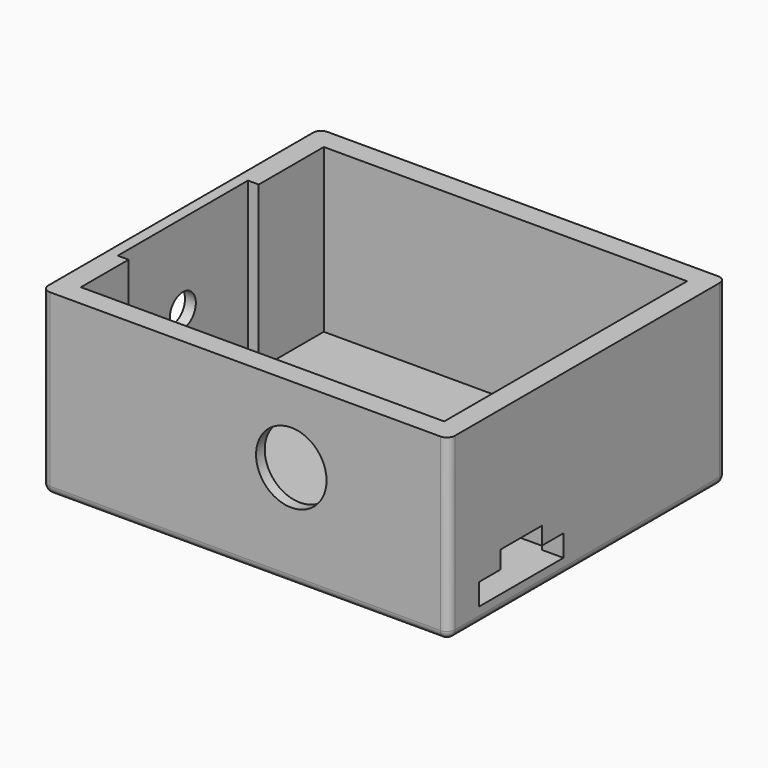
from build123d import *

# Parameters (mm, degrees)
CYLINDER005_R             = 3
CYLINDER005_DEPTH         = 10
BOX009_W                  = 30
BOX009_H                  = 30
BOX009_DEPTH              = 6
FUSION005_PLACEMENT_ANGLE = 270
BOX008_W                  = 28
BOX008_H                  = 18
BOX008_DEPTH              = 12.2
BOX007_W                  = 10
BOX007_H                  = 10
BOX007_DEPTH              = 10
BOX006_W                  = 10
BOX006_H                  = 10
BOX006_DEPTH              = 10
BOX005_W                  = 10
BOX005_H                  = 8
BOX005_DEPTH              = 4
BOX004_W                  = 29
BOX004_H                  = 19.5
BOX004_DEPTH              = 7.25
CYLINDER004_R             = 3.6
CYLINDER004_DEPTH         = 6.7
CYLINDER003_R             = 4.65
CYLINDER003_DEPTH         = 19
CYLINDER002_R             = 3.6
CYLINDER002_DEPTH         = 6.7
CYLINDER001_R             = 4.65
CYLINDER001_DEPTH         = 19
BOX003_W                  = 50
BOX003_H                  = 27
BOX003_DEPTH              = 12
BOX002_W                  = 51
BOX002_H                  = 24
BOX002_DEPTH              = 7
BOX001_W                  = 51
BOX001_H                  = 28
BOX001_DEPTH              = 6
FUSION001_PLACEMENT_ANGLE = 90
CYLINDER_R                = 6.5
CYLINDER_DEPTH            = 9
BOX_W                     = 30
BOX_H                     = 16
BOX_DEPTH                 = 30
FUSION_PLACEMENT_ANGLE    = 90
BOX013_W                  = 27
BOX013_H                  = 15.5
BOX013_DEPTH              = 3.5
BOX012_W                  = 75
BOX012_H                  = 64
BOX012_DEPTH              = 4
BOX011_W                  = 67
BOX011_H                  = 56
BOX011_DEPTH              = 30
BOX010_W                  = 75
BOX010_H                  = 64
BOX010_DEPTH              = 36
FILLET_R                  = 1.5


with BuildPart() as cylinder005:
    # Cylinder005 → Cylinder005 (new body)
    with BuildSketch(Plane(origin=(15, 15, 0), x_dir=(1, 0, 0), z_dir=(0, 0, 1))):
        Circle(CYLINDER005_R)
    extrude(amount=CYLINDER005_DEPTH)


with BuildPart() as obj1:
    # Box009 → Box009 (new body)
    with BuildSketch(Plane.XY):
        with Locations((15, 15)):
            Rectangle(BOX009_W, BOX009_H)
    extrude(amount=BOX009_DEPTH)

    # Fusion005: union Cylinder005
    add(cylinder005.part)


with BuildPart() as obj1_1:
    # Fusion005 placement: moved
    add(obj1.part.moved(Location((-34, 0, 0))).rotate(Axis((-34, 0, 0), (0, 1, 0)), FUSION005_PLACEMENT_ANGLE))


with BuildPart() as obj2:
    # Box008 → Box008 (new body)
    with BuildSketch(Plane(origin=(-30, -7, 0), x_dir=(1, 0, 0), z_dir=(0, 0, 1))):
        with Locations((14, 9)):
            Rectangle(BOX008_W, BOX008_H)
    extrude(amount=BOX008_DEPTH)


with BuildPart() as cube006:
    # Box007 → Box007 (new body)
    with BuildSketch(Plane(origin=(19, 14.5, 4), x_dir=(1, 0, 0), z_dir=(0, 0, 1))):
        with Locations((5, 5)):
            Rectangle(BOX007_W, BOX007_H)
    extrude(amount=BOX007_DEPTH)


with BuildPart() as cube005:
    # Box006 → Box006 (new body)
    with BuildSketch(Plane(origin=(19, -5, 4), x_dir=(1, 0, 0), z_dir=(0, 0, 1))):
        with Locations((5, 5)):
            Rectangle(BOX006_W, BOX006_H)
    extrude(amount=BOX006_DEPTH)


with BuildPart() as cube004:
    # Box005 → Box005 (new body)
    with BuildSketch(Plane(origin=(28, 5.75, 1.75), x_dir=(1, 0, 0), z_dir=(0, 0, 1))):
        with Locations((5, 4)):
            Rectangle(BOX005_W, BOX005_H)
    extrude(amount=BOX005_DEPTH)


with BuildPart() as usb_battery_charger:
    # Box004 → Box004 (new body)
    with BuildSketch(Plane.XY):
        with Locations((14.5, 9.75)):
            Rectangle(BOX004_W, BOX004_H)
    extrude(amount=BOX004_DEPTH)

    # Fusion004: union Cube004
    add(cube004.part)

    # Cut: cut Cube005
    add(cube005.part, mode=Mode.SUBTRACT)

    # Cut001: cut Cube006
    add(cube006.part, mode=Mode.SUBTRACT)


with BuildPart() as usb_battery_charger_1:
    # Cut001 placement: moved
    add(usb_battery_charger.part.moved(Location((4, -8, 0))))


with BuildPart() as cylinder004:
    # Cylinder004 → Cylinder004 (new body)
    with BuildSketch(Plane.XY.offset(19)):
        Circle(CYLINDER004_R)
    extrude(amount=CYLINDER004_DEPTH)


with BuildPart() as push_button_start_stop:
    # Cylinder003 → Cylinder003 (new body)
    with BuildSketch(Plane.XY):
        Circle(CYLINDER003_R)
    extrude(amount=CYLINDER003_DEPTH)

    # Fusion003: union Cylinder004
    add(cylinder004.part)


with BuildPart() as push_button_start_stop_1:
    # Fusion003 placement: moved
    add(push_button_start_stop.part.moved(Location((3, 35, 12))))


with BuildPart() as cylinder002:
    # Cylinder002 → Cylinder002 (new body)
    with BuildSketch(Plane.XY.offset(19)):
        Circle(CYLINDER002_R)
    extrude(amount=CYLINDER002_DEPTH)


with BuildPart() as push_button_mode_reset:
    # Cylinder001 → Cylinder001 (new body)
    with BuildSketch(Plane.XY):
        Circle(CYLINDER001_R)
    extrude(amount=CYLINDER001_DEPTH)

    # Fusion002: union Cylinder002
    add(cylinder002.part)


with BuildPart() as push_button_mode_reset_1:
    # Fusion002 placement: moved
    add(push_button_mode_reset.part.moved(Location((20, 35, 12))))


with BuildPart() as lipo_battery:
    # Box003 → Box003 (new body)
    with BuildSketch(Plane(origin=(-22, 18, 0), x_dir=(1, 0, 0), z_dir=(0, 0, 1))):
        with Locations((25, 13.5)):
            Rectangle(BOX003_W, BOX003_H)
    extrude(amount=BOX003_DEPTH)


with BuildPart() as cube002:
    # Box002 → Box002 (new body)
    with BuildSketch(Plane(origin=(0, 2, 6), x_dir=(1, 0, 0), z_dir=(0, 0, 1))):
        with Locations((25.5, 12)):
            Rectangle(BOX002_W, BOX002_H)
    extrude(amount=BOX002_DEPTH)


with BuildPart() as lcd_display:
    # Box001 → Box001 (new body)
    with BuildSketch(Plane.XY):
        with Locations((25.5, 14)):
            Rectangle(BOX001_W, BOX001_H)
    extrude(amount=BOX001_DEPTH)

    # Fusion001: union Cube002
    add(cube002.part)


with BuildPart() as lcd_display_1:
    # Fusion001 placement: moved
    add(lcd_display.part.moved(Location((-5, -8, 25))).rotate(Axis((-5, -8, 25), (0, 0, 1)), FUSION001_PLACEMENT_ANGLE))


with BuildPart() as cylinder:
    # Cylinder → Cylinder (new body)
    with BuildSketch(Plane(origin=(15, 8, 30), x_dir=(1, 0, 0), z_dir=(0, 0, 1))):
        Circle(CYLINDER_R)
    extrude(amount=CYLINDER_DEPTH)


with BuildPart() as awesome_switch:
    # Box → Box (new body)
    with BuildSketch(Plane.XY):
        with Locations((15, 8)):
            Rectangle(BOX_W, BOX_H)
    extrude(amount=BOX_DEPTH)

    # Fusion: union Cylinder
    add(cylinder.part)


with BuildPart() as awesome_switch_1:
    # Fusion placement: moved
    add(awesome_switch.part.moved(Location((-11, 17, 8))).rotate(Axis((-11, 17, 8), (1, 0, 0)), FUSION_PLACEMENT_ANGLE))


with BuildPart() as parts:
    # Box013 → Box013 (new body)
    with BuildSketch(Plane(origin=(-35, 19, 12), x_dir=(1, 0, 0), z_dir=(0, 0, 1))):
        with Locations((13.5, 7.75)):
            Rectangle(BOX013_W, BOX013_H)
    extrude(amount=BOX013_DEPTH)

    # Fusion006: union obj1, obj2, USB Battery Charger, Push Button start/stop, Push Button mode/reset, Lipo Battery, LCD Display, Awesome switch
    add(obj1_1.part)
    add(obj2.part)
    add(usb_battery_charger_1.part)
    add(push_button_start_stop_1.part)
    add(push_button_mode_reset_1.part)
    add(lipo_battery.part)
    add(lcd_display_1.part)
    add(awesome_switch_1.part)


with BuildPart() as lidremove:
    # Box012 → Box012 (new body)
    with BuildSketch(Plane(origin=(-42, -15, 30), x_dir=(1, 0, 0), z_dir=(0, 0, 1))):
        with Locations((37.5, 32)):
            Rectangle(BOX012_W, BOX012_H)
    extrude(amount=BOX012_DEPTH)


with BuildPart() as innerbox:
    # Box011 → Box011 (new body)
    with BuildSketch(Plane(origin=(-38, -11, 0), x_dir=(1, 0, 0), z_dir=(0, 0, 1))):
        with Locations((33.5, 28)):
            Rectangle(BOX011_W, BOX011_H)
    extrude(amount=BOX011_DEPTH)


with BuildPart() as cut004:
    # Box010 → Box010 (new body)
    with BuildSketch(Plane(origin=(-42, -15, -3), x_dir=(1, 0, 0), z_dir=(0, 0, 1))):
        with Locations((37.5, 32)):
            Rectangle(BOX010_W, BOX010_H)
    extrude(amount=BOX010_DEPTH)

    # Fillet
    fillet_edges = [cut004.edges().sort_by_distance(p)[0] for p in [
        (-42, -15, 15),
        (-42, 17, 33),
        (-42, 49, 15),
        (-42, 17, -3),
        (33, -15, 15),
        (33, 17, 33),
        (33, 49, 15),
        (33, 17, -3),
        (-4.5, -15, -3),
        (-4.5, -15, 33),
        (-4.5, 49, -3),
        (-4.5, 49, 33),
    ]]
    fillet(fillet_edges, radius=FILLET_R)

    # Cut002: cut InnerBox
    add(innerbox.part, mode=Mode.SUBTRACT)

    # Cut003: cut LidRemove
    add(lidremove.part, mode=Mode.SUBTRACT)

    # Cut004: cut parts
    add(parts.part, mode=Mode.SUBTRACT)


solid = cut004.part
